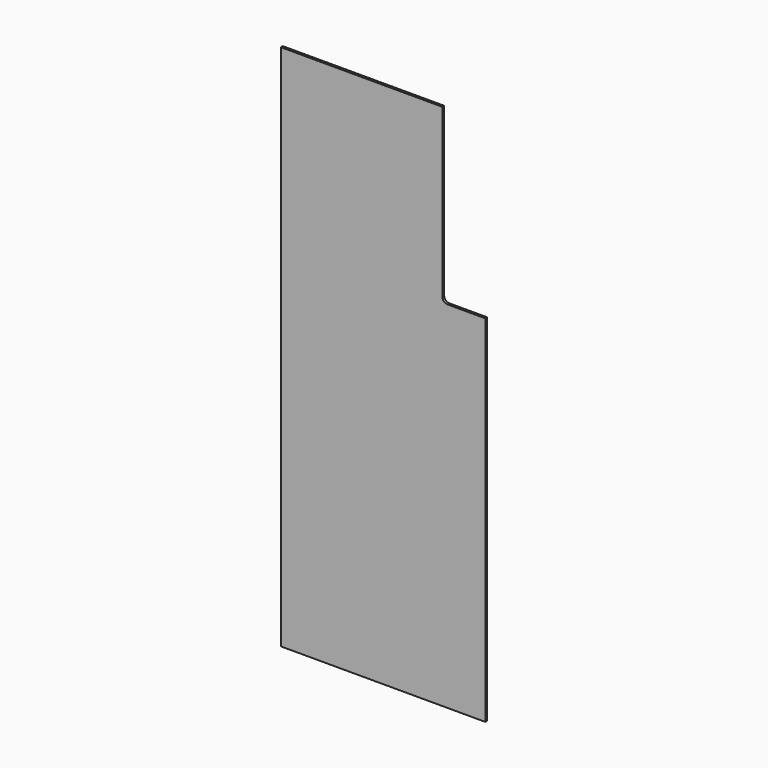
from build123d import *

# Parameters (mm, degrees)
F0_W     = 482.6
F0_H     = 1244.6
F1_DEPTH = 5.588
F3_DEPTH = 5.589


with BuildPart() as f1:
    # F0 (on Front) → F1 (new body)
    with BuildSketch(Plane.XZ):
        with Locations((-171.822116, 8.141011)):
            Rectangle(F0_W, F0_H)
    extrude(amount=F1_DEPTH)

    # F2 (on face) → F3 (cut, through all)
    with BuildSketch(Plane.XZ.offset(5.588)):
        with BuildLine():
            Line((69.477884, 224.041011), (69.477884, 630.441011))
            Line((69.477884, 630.441011), (-32.122116, 630.441011))
            Line((-32.122116, 630.441011), (-32.122116, 236.741011))
            ThreePointArc((-32.122116, 236.741011), (-28.402372, 227.760755), (-19.422116, 224.041011))
            Line((-19.422116, 224.041011), (69.477884, 224.041011))
        make_face()
    extrude(amount=-F3_DEPTH, mode=Mode.SUBTRACT)


solid = f1.part
